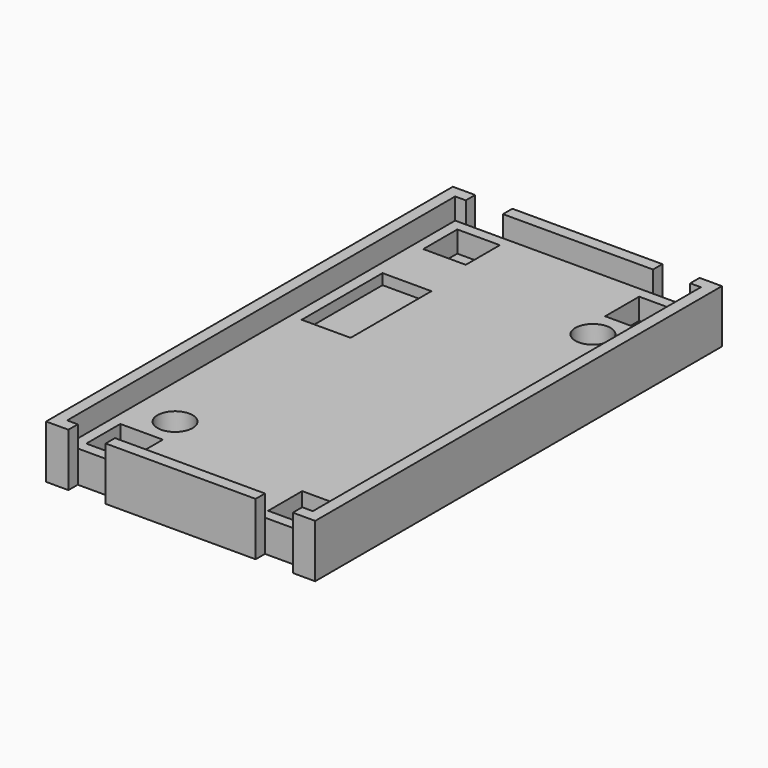
from build123d import *

# Parameters (mm, degrees)
SKETCH_W                   = 21.1
SKETCH_H                   = 43.6
PAD_DEPTH                  = 3
SKETCH004_W                = 23.1
SKETCH004_H                = 45.6
PAD001_DEPTH               = 3
SKETCH005_W                = 7.05
SKETCH005_H                = 1.1
PAD002_DEPTH               = 5
SKETCH005_MIRRORED002_2_W  = 7.05
SKETCH005_MIRRORED002_2_H  = 1.1
PAD002_MIRRORED002_2_DEPTH = 5
SKETCH002_W                = 4.6
SKETCH002_H                = 9.5
POCKET_DEPTH               = 1
SKETCH001_R                = 1.65
POCKET001_DEPTH            = 0.001
POCKET001_DEPTH_BACK       = -5.001
SKETCH003_W                = 4
SKETCH003_H                = 4
POCKET002_DEPTH            = 2
SKETCH003_MIRRORED_2_W     = 4
SKETCH003_MIRRORED_2_H     = 4
POCKET002_MIRRORED_2_DEPTH = 2


with BuildPart() as part:
    # Sketch → Pad (new body)
    with BuildSketch(Plane.XY):
        Rectangle(SKETCH_W, SKETCH_H)
    extrude(amount=PAD_DEPTH)

    # Sketch004 → Pad001 (join)
    with BuildSketch(Plane.XY):
        Rectangle(SKETCH004_W, SKETCH004_H)
    extrude(amount=PAD001_DEPTH)

    # Sketch005 → Pad002 (join)
    with BuildSketch(Plane.XY):
        with Locations((3.525, 23.35)):
            Rectangle(SKETCH005_W, SKETCH005_H)
        Polygon((11.55, 22.8), (10.55, 22.8), (10.55, 23.9), (12.65, 23.9), (12.65, 0), (11.55, 0), align=None)
    pad002 = extrude(amount=PAD002_DEPTH)

    # Sketch005 Mirrored002 2 → Pad002 Mirrored002 2 (add)
    with BuildSketch(Plane(origin=(0, 0, 0), x_dir=(-1, 0, 0), z_dir=(0, 0, -1))):
        with Locations((3.525, 23.35)):
            Rectangle(SKETCH005_MIRRORED002_2_W, SKETCH005_MIRRORED002_2_H)
        Polygon((11.55, 22.8), (10.55, 22.8), (10.55, 23.9), (12.65, 23.9), (12.65, 0), (11.55, 0), align=None)
    pad002_mirrored002_2 = extrude(amount=-PAD002_MIRRORED002_2_DEPTH)

    # Mirrored003: Pad002, Pad002 Mirrored002 2 across Sketch005 H_Axis
    add(pad002.mirror(Plane.ZX))
    add(pad002_mirrored002_2.mirror(Plane.ZX))

    # Sketch002 → Pocket (cut)
    with BuildSketch(Plane(origin=(-8.2, 8.2, 3), x_dir=(1, 0, 0), z_dir=(0, 0, 1))):
        Rectangle(SKETCH002_W, SKETCH002_H)
    extrude(amount=-POCKET_DEPTH, mode=Mode.SUBTRACT)

    # Sketch001 → Pocket001 (cut, two sides)
    with BuildSketch(Plane.XY) as pocket001_sk:
        with Locations((7.643116, 15)):
            Circle(SKETCH001_R)
        with Locations((-7.643116, -15)):
            Circle(SKETCH001_R)
    extrude(amount=-POCKET001_DEPTH, mode=Mode.SUBTRACT)
    extrude(pocket001_sk.sketch, amount=-POCKET001_DEPTH_BACK, mode=Mode.SUBTRACT)

    # Sketch003 → Pocket002 (cut)
    with BuildSketch(Plane.XY.offset(3)):
        with Locations((8.55, 19.8)):
            Rectangle(SKETCH003_W, SKETCH003_H)
    pocket002 = extrude(amount=-POCKET002_DEPTH, mode=Mode.SUBTRACT)

    # Sketch003 Mirrored 2 → Pocket002 Mirrored 2 (cut)
    with BuildSketch(Plane(origin=(0, 0, 3), x_dir=(-1, 0, 0), z_dir=(0, 0, -1))):
        with Locations((8.55, 19.8)):
            Rectangle(SKETCH003_MIRRORED_2_W, SKETCH003_MIRRORED_2_H)
    pocket002_mirrored_2 = extrude(amount=POCKET002_MIRRORED_2_DEPTH, mode=Mode.SUBTRACT)

    # Mirrored001: Pocket002, Pocket002 Mirrored 2 across Sketch003 H_Axis
    add(pocket002.mirror(Plane(origin=(0, 0, 3), x_dir=(0, 0, 1), z_dir=(0, 1, 0))), mode=Mode.SUBTRACT)
    add(pocket002_mirrored_2.mirror(Plane(origin=(0, 0, 3), x_dir=(0, 0, 1), z_dir=(0, 1, 0))), mode=Mode.SUBTRACT)


solid = part.part
